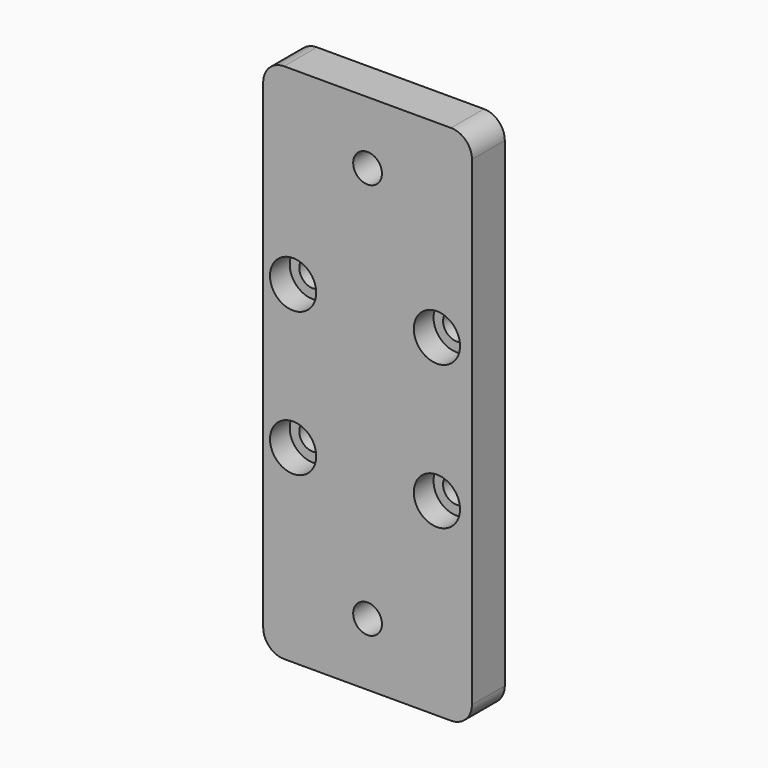
from build123d import *

# Parameters (mm, degrees)
F0_W           = 50.8
F0_H           = 127
F1_DEPTH       = 10
F2_R           = 5.08
F4_D           = 7
F6_D           = 6.6
F6_CBORE_D     = 11.25
F6_CBORE_DEPTH = 6


with BuildPart() as f1:
    # F0 (on Front) → F1 (new body)
    with BuildSketch(Plane.XZ):
        Rectangle(F0_W, F0_H)
    extrude(amount=F1_DEPTH)

    # F2
    f2_edges = [f1.edges().sort_by_distance(p)[0] for p in [
        (25.4, -5, 63.5),
        (25.4, -5, -63.5),
        (-25.4, -5, -63.5),
        (-25.4, -5, 63.5),
    ]]
    fillet(f2_edges, radius=F2_R)

    # F4 (through all)
    with Locations(Plane.XZ.offset(10)):
        with Locations((0, 48.26), (0, -48.26)):
            Hole(F4_D / 2)

    # F6 (through all)
    with Locations(Plane.XZ.offset(10)):
        with Locations((-18.122286547, 17.5), (16.877713453, 17.5), (16.877713453, -17.5), (-18.122286547, -17.5)):
            CounterBoreHole(F6_D / 2, F6_CBORE_D / 2, F6_CBORE_DEPTH)


solid = f1.part
